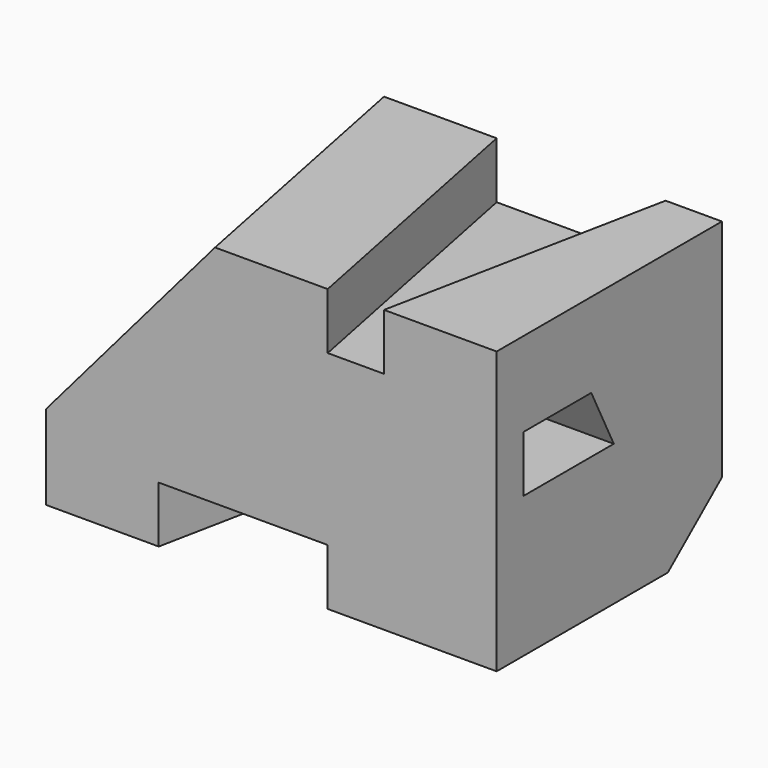
from build123d import *

# Parameters (mm, degrees)
F0_W      = 80
F0_H      = 50
F1_DEPTH  = 50
F6_DEPTH  = 10
F8_DEPTH  = 15
F10_DEPTH = 25
F12_DEPTH = 10


with BuildPart() as f1:
    # F0 (on Top) → F1 (new body)
    with BuildSketch(Plane.XY):
        with Locations((40, 25)):
            Rectangle(F0_W, F0_H)
    extrude(amount=F1_DEPTH)

    # F4: sweep along a path in F3
    with BuildLine(Plane.XY.offset(50)) as f4_path:
        Line((30, 0), (20, 50))
    # F2 (on face) → F4 (sweep, cut)
    with BuildSketch(Plane.XZ):
        Polygon((0, 50), (0, 15), (30, 50), align=None)
    sweep(path=f4_path.line, mode=Mode.SUBTRACT)

    # F5 (on face) → F6 (cut)
    with BuildSketch(Plane(origin=(0, 0, 0), x_dir=(1, 0, 0), z_dir=(0, 0, -1))):
        Polygon((50, 0), (20, 0), (30, -50), (40, -50), align=None)
    extrude(amount=-F6_DEPTH, mode=Mode.SUBTRACT)

    # F7 (on face) → F8 (cut)
    with BuildSketch(Plane.YZ.offset(80)):
        Polygon((38, 0), (50, 0), (50, 10), align=None)
    extrude(amount=-F8_DEPTH, mode=Mode.SUBTRACT)

    # F9 (on face) → F10 (cut)
    with BuildSketch(Plane.YZ.offset(80)):
        Polygon((21, 35), (6, 35), (6, 25), (26, 25), align=None)
    extrude(amount=-F10_DEPTH, mode=Mode.SUBTRACT)

    # F11 (on face) → F12 (cut)
    with BuildSketch(Plane.XY.offset(50)):
        Polygon((40, 50), (50, 0), (60, 0), (70, 50), align=None)
    extrude(amount=-F12_DEPTH, mode=Mode.SUBTRACT)


solid = f1.part
